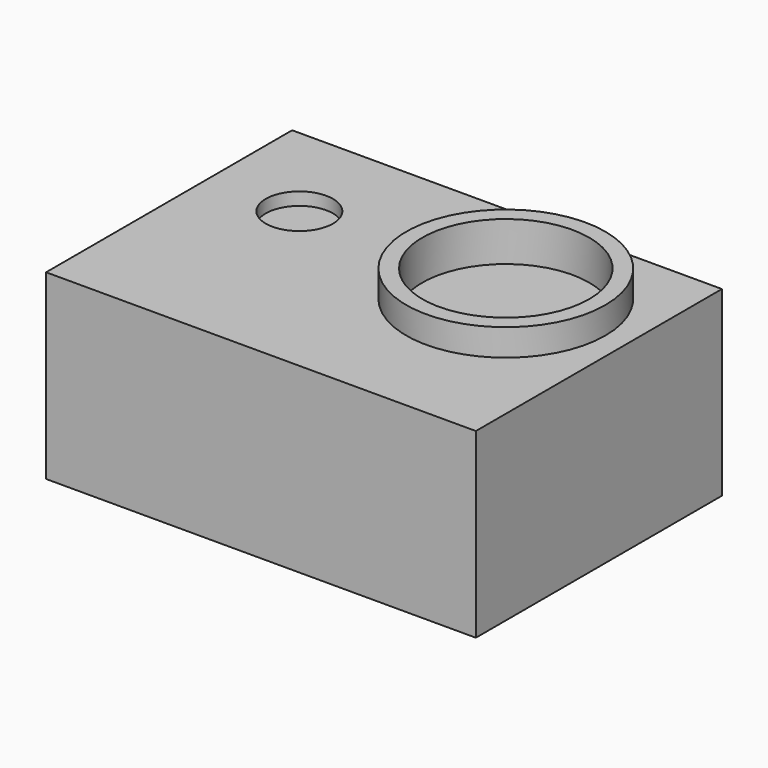
from build123d import *

# Parameters (mm, degrees)
F4_W      = 64
F4_H      = 45.8
F4_W_2    = 59.2
F4_H_2    = 41
F5_DEPTH  = 24.7
F6_W      = 64
F6_H      = 45.8
F6_W_2    = 59.2
F6_H_2    = 41
F7_DEPTH  = 2.4
F8_R      = 5
F9_DEPTH  = 1.9
F10_R     = 14.82
F10_R_2   = 12.42
F11_DEPTH = 4
F12_DEPTH = 1.9
F13_R     = 5
F14_DEPTH = 2.4


with BuildPart() as f5:
    # F4 (on Top) → F5 (new body)
    with BuildSketch(Plane.XY):
        Rectangle(F4_W, F4_H)
        Rectangle(F4_W_2, F4_H_2, mode=Mode.SUBTRACT)
    extrude(amount=F5_DEPTH)

    # F6 (on face) → F7 (join)
    with BuildSketch(Plane.XY.offset(24.7)):
        Rectangle(F6_W, F6_H)
        Rectangle(F6_W_2, F6_H_2, mode=Mode.SUBTRACT)
        Rectangle(F6_W_2, F6_H_2)
    extrude(amount=F7_DEPTH)

    # F8 (on face) → F9 (cut)
    with BuildSketch(Plane.XY.offset(27.1)):
        with Locations((-18.6, 7.5)):
            Circle(F8_R)
    extrude(amount=-F9_DEPTH, mode=Mode.SUBTRACT)

    # F10 (on face) → F11 (join)
    with BuildSketch(Plane.XY.offset(27.1)):
        with Locations((13.926, 5.264)):
            Circle(F10_R)
        with Locations((13.926, 5.264)):
            Circle(F10_R_2, mode=Mode.SUBTRACT)
    extrude(amount=F11_DEPTH)

    # F12 (cut): a face of the model
    f12_faces = [f5.faces().sort_by_distance(p)[0] for p in [
        (13.926, 5.264, 27.1),
    ]]
    extrude(f12_faces, amount=-F12_DEPTH, mode=Mode.SUBTRACT)

    # F13 (on face) → F14 (cut)
    with BuildSketch(Plane(origin=(0, 22.9, 0), x_dir=(-1, 0, 0), z_dir=(0, 1, 0))):
        with Locations((17.1, 13.55)):
            Circle(F13_R)
    extrude(amount=-F14_DEPTH, mode=Mode.SUBTRACT)


solid = f5.part
